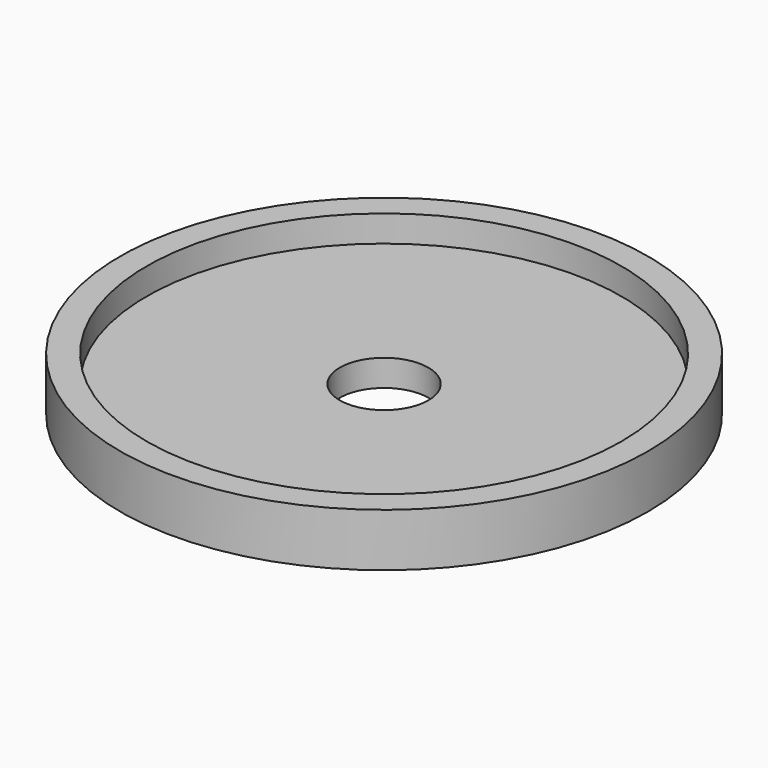
from build123d import *

# Parameters (mm, degrees)
F0_R     = 14.9
F0_R_2   = 13.4
F0_R_3   = 2.5
F1_DEPTH = 3
F2_DEPTH = 1.5


with BuildPart() as f1:
    # F0 (on Top) → F1 (new body)
    with BuildSketch(Plane.XY):
        Circle(F0_R)
        Circle(F0_R_2, mode=Mode.SUBTRACT)
        Circle(F0_R_2)
        Circle(F0_R_3, mode=Mode.SUBTRACT)
    extrude(amount=-F1_DEPTH)

    # F0 (on Top) → F2 (cut)
    with BuildSketch(Plane.XY):
        Circle(F0_R_2)
        Circle(F0_R_3, mode=Mode.SUBTRACT)
    extrude(amount=-F2_DEPTH, mode=Mode.SUBTRACT)


solid = f1.part
